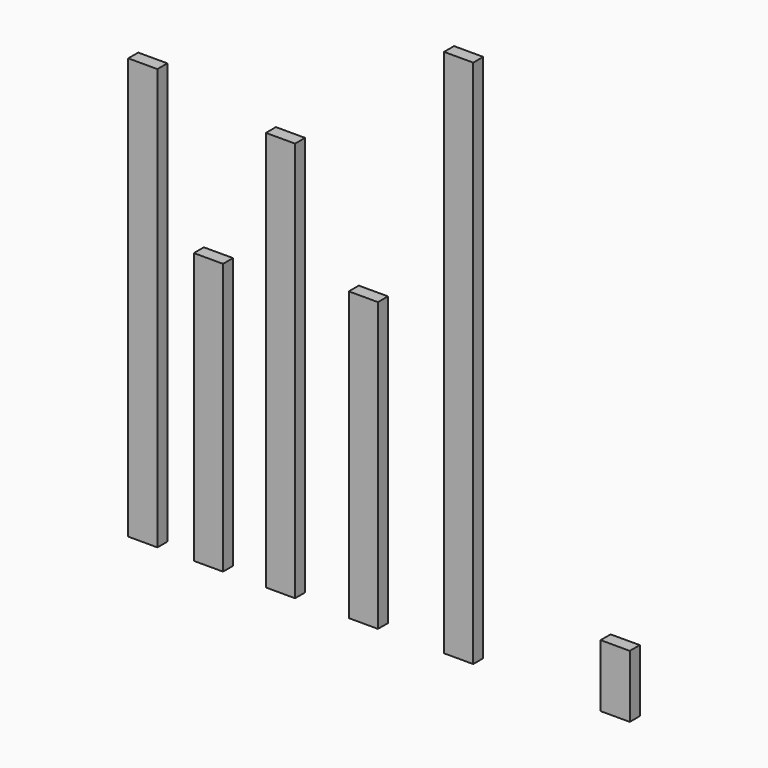
from build123d import *

# Parameters (mm, degrees)
F0_W      = 88.9
F0_H      = 38.1
F1_DEPTH  = 876.3
F2_W      = 88.9
F2_H      = 38.1
F3_DEPTH  = 1219.2
F4_W      = 88.9
F4_H      = 38.1
F5_DEPTH  = 1612.9
F6_W      = 88.9
F6_H      = 38.1
F7_DEPTH  = 825.5
F8_W      = 88.9
F8_H      = 38.1
F9_DEPTH  = 190.5
F10_W     = 88.9
F10_H     = 38.1
F11_DEPTH = 1282.7


with BuildPart() as f1:
    # F0 (on Top) → F1 (new body)
    with BuildSketch(Plane.XY):
        Rectangle(F0_W, F0_H)
    extrude(amount=F1_DEPTH)


with BuildPart() as f3:
    # F2 (on Top) → F3 (new body)
    with BuildSketch(Plane.XY):
        with Locations((-252.554866, 0)):
            Rectangle(F2_W, F2_H)
    extrude(amount=F3_DEPTH)


with BuildPart() as f5:
    # F4 (on Top) → F5 (new body)
    with BuildSketch(Plane.XY):
        with Locations((290.114943, 0)):
            Rectangle(F4_W, F4_H)
    extrude(amount=F5_DEPTH)


with BuildPart() as f7:
    # F6 (on Top) → F7 (new body)
    with BuildSketch(Plane.XY):
        with Locations((-472.05397, 0)):
            Rectangle(F6_W, F6_H)
    extrude(amount=F7_DEPTH)


with BuildPart() as f9:
    # F8 (on Top) → F9 (new body)
    with BuildSketch(Plane.XY):
        with Locations((767.014413, 0)):
            Rectangle(F8_W, F8_H)
    extrude(amount=F9_DEPTH)


with BuildPart() as f11:
    # F10 (on Top) → F11 (new body)
    with BuildSketch(Plane.XY):
        with Locations((-671.922533, 0)):
            Rectangle(F10_W, F10_H)
    extrude(amount=F11_DEPTH)


solid = Compound([f1.part, f3.part, f5.part, f7.part, f9.part, f11.part])
